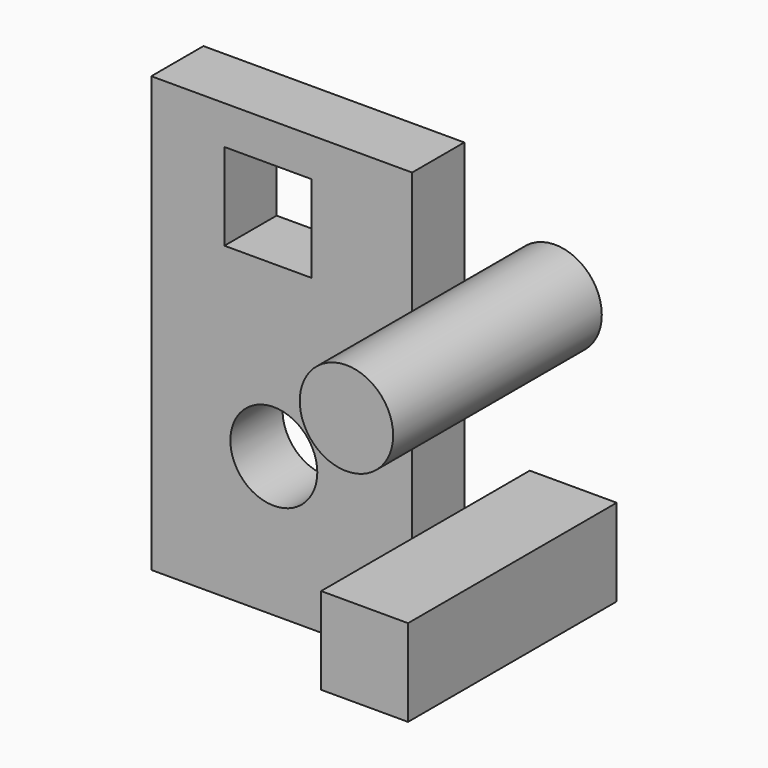
from build123d import *

# Parameters (mm, degrees)
F0_W     = 76.2
F0_H     = 127
F1_DEPTH = 19.05
F2_W     = 25.4
F2_H     = 25.4
F3_DEPTH = 25.4
F4_R     = 12.7
F5_DEPTH = 25.4
F6_R     = 13.642157
F7_DEPTH = 76.2
F8_W     = 25.4
F8_H     = 25.4
F9_DEPTH = 76.2


with BuildPart() as f1:
    # F0 (on Front) → F1 (new body)
    with BuildSketch(Plane.XZ):
        with Locations((-33.69895, 14.042744)):
            Rectangle(F0_W, F0_H)
    extrude(amount=F1_DEPTH)

    # F2 (on face) → F3 (cut)
    with BuildSketch(Plane.XZ.offset(19.05)):
        with Locations((-37.730069, 53.588224)):
            Rectangle(F2_W, F2_H)
    extrude(amount=-F3_DEPTH, mode=Mode.SUBTRACT)

    # F4 (on face) → F5 (cut)
    with BuildSketch(Plane.XZ.offset(19.05)):
        with Locations((-35.998303, -8.60944)):
            Circle(F4_R)
    extrude(amount=-F5_DEPTH, mode=Mode.SUBTRACT)


with BuildPart() as f7:
    # F6 (on Front) → F7 (new body)
    with BuildSketch(Plane.XZ):
        with Locations((30.93604, 46.231721)):
            Circle(F6_R)
    extrude(amount=F7_DEPTH)


with BuildPart() as f9:
    # F8 (on Front) → F9 (new body)
    with BuildSketch(Plane.XZ):
        with Locations((36.23519, -13.346118)):
            Rectangle(F8_W, F8_H)
    extrude(amount=F9_DEPTH)


solid = Compound([f1.part, f7.part, f9.part])
